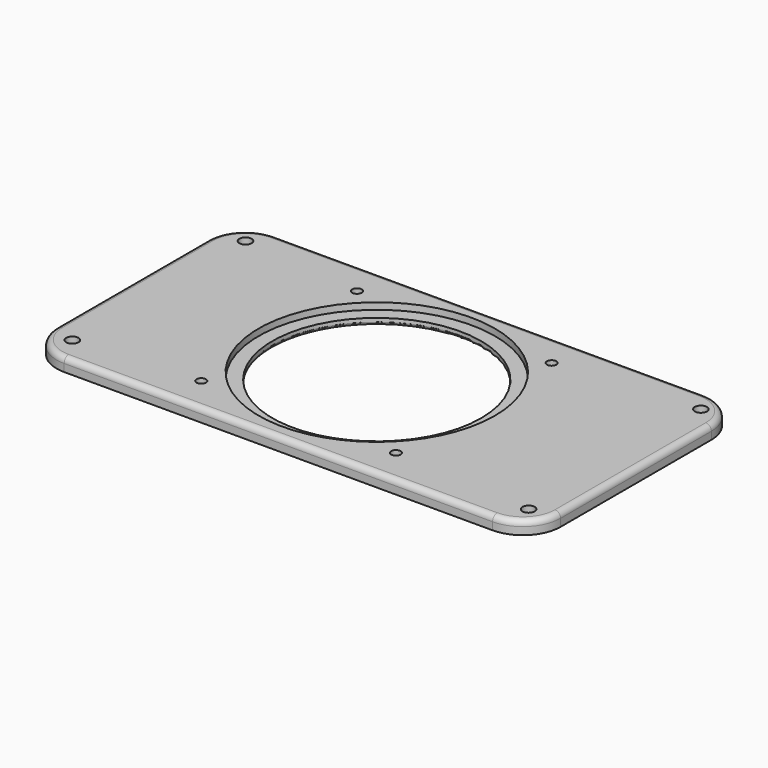
from build123d import *

# Parameters (mm, degrees)
F0_W      = 266.7
F0_H      = 139.7
F1_DEPTH  = 7
F2_R      = 20
F3_R      = 62.5
F3_R_2    = 55.25
F4_DEPTH  = 3.5
F5_DEPTH  = 10
F6_R      = 3.25
F7_DEPTH  = 8
F8_R      = 2.5
F9_DEPTH  = 8
F10_R     = 5.625
F11_DEPTH = 2.8
F12_R     = 1.5
F13_R     = 3


with BuildPart() as f1:
    # F0 (on Top) → F1 (new body)
    with BuildSketch(Plane.XY):
        with Locations((70.65095, -0.318812)):
            Rectangle(F0_W, F0_H)
    extrude(amount=F1_DEPTH)

    # F2
    f2_edges = [f1.edges().sort_by_distance(p)[0] for p in [
        (-62.69905, 69.531188, 3.5),
        (204.00095, 69.531188, 3.5),
        (-62.69905, -70.168812, 3.5),
        (204.00095, -70.168812, 3.5),
    ]]
    fillet(f2_edges, radius=F2_R)

    # F3 (on face) → F4 (cut)
    with BuildSketch(Plane.XY.offset(7)):
        with Locations((66.581185, 0)):
            Circle(F3_R)
        with Locations((66.581185, 0)):
            Circle(F3_R_2, mode=Mode.SUBTRACT)
    extrude(amount=-F4_DEPTH, mode=Mode.SUBTRACT)

    # F3 (on face) → F5 (cut)
    with BuildSketch(Plane.XY.offset(7)):
        with Locations((66.581185, 0)):
            Circle(F3_R_2)
    extrude(amount=-F5_DEPTH, mode=Mode.SUBTRACT)

    # F6 (on face) → F7 (cut)
    with BuildSketch(Plane(origin=(0, 0, 0), x_dir=(1, 0, 0), z_dir=(0, 0, -1))):
        with Locations((-49.543765, 56.214787)):
            Circle(F6_R)
        with Locations((192.163914, 56.564152)):
            Circle(F6_R)
        with Locations((191.876724, -57.752054)):
            Circle(F6_R)
        with Locations((-49.089845, -57.752058)):
            Circle(F6_R)
    extrude(amount=-F7_DEPTH, mode=Mode.SUBTRACT)

    # F8 (on face) → F9 (cut)
    with BuildSketch(Plane.XY.offset(7)):
        with Locations((14.890482, 51.512826)):
            Circle(F8_R)
        with Locations((117.890482, 51.512826)):
            Circle(F8_R)
        with Locations((117.890482, -51.487174)):
            Circle(F8_R)
        with Locations((14.890482, -51.487174)):
            Circle(F8_R)
    extrude(amount=-F9_DEPTH, mode=Mode.SUBTRACT)

    # F10 (on face) → F11 (cut)
    with BuildSketch(Plane(origin=(0, 0, 0), x_dir=(1, 0, 0), z_dir=(0, 0, -1))):
        with Locations((14.890482, 51.487174)):
            Circle(F10_R)
        with Locations((117.890482, 51.487174)):
            Circle(F10_R)
        with Locations((117.890482, -51.512826)):
            Circle(F10_R)
        with Locations((14.890482, -51.512826)):
            Circle(F10_R)
    extrude(amount=-F11_DEPTH, mode=Mode.SUBTRACT)

    # F12
    f12_edges = [f1.edges().sort_by_distance(p)[0] for p in [
        (11.331185, 0, 0),
    ]]
    fillet(f12_edges, radius=F12_R)

    # F13
    f13_edges = [f1.edges().sort_by_distance(p)[0] for p in [
        (70.65095, 69.531188, 7),
    ]]
    fillet(f13_edges, radius=F13_R)


solid = f1.part
